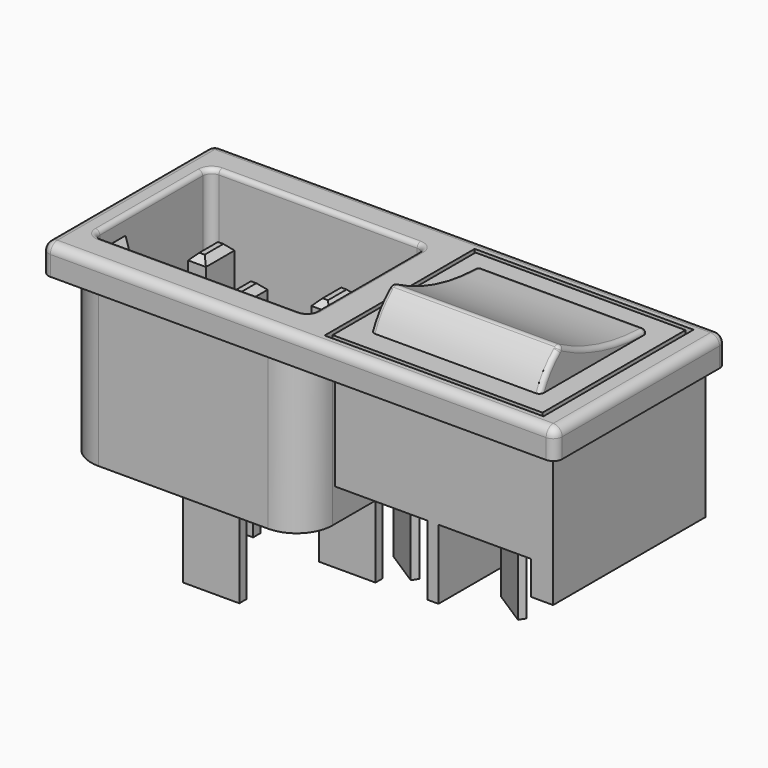
from build123d import *

# Parameters (mm, degrees)
SKETCH_W        = 57.5
SKETCH_H        = 24
PAD_DEPTH       = 3.2
FILLET_R        = 1
FILLET001_R     = 1
SKETCH001_W     = 24.5
SKETCH001_H     = 21
SKETCH001_W_2   = 23.5
SKETCH001_H_2   = 20
POCKET_DEPTH    = 1
SKETCH002_W     = 24.2
SKETCH002_H     = 16.4
POCKET001_DEPTH = 2
SKETCH003_W     = 27
SKETCH003_H     = 21.3
PAD001_DEPTH    = 17.8
SKETCH004_W     = 24.4
SKETCH004_H     = 21.3
PAD002_DEPTH    = 11.2
SKETCH005_W     = 2.5
SKETCH005_H     = 21.3
PAD003_DEPTH    = 3.75
FILLET002_R     = 4
SKETCH006_W     = 1.25
SKETCH006_H     = 21.3
PAD004_DEPTH    = 7.8
SKETCH007_W     = 24.2
SKETCH007_H     = 16.4
POCKET002_DEPTH = 17
CHAMFER_SIZE    = 4.6
SKETCH008_W     = 24.2
SKETCH008_H     = 16.4
POCKET003_DEPTH = 2
FILLET003_R     = 1
FILLET004_R     = 1
FILLET005_R     = 0.5
PAD005_DEPTH    = 24.25
POCKET004_DEPTH = 5.25
FILLET006_R     = 0.49
FILLET007_R     = 0.49
SKETCH011_W     = 6.3
SKETCH011_H     = 1
PAD006_DEPTH    = 11
SKETCH012_W     = 2
SKETCH012_H     = 4
PAD007_DEPTH    = 15.2
CHAMFER001_SIZE = 0.7
PAD008_DEPTH    = 7.8


with BuildPart() as part:
    # Sketch → Pad (new body)
    with BuildSketch(Plane.XY):
        Rectangle(SKETCH_W, SKETCH_H)
    extrude(amount=PAD_DEPTH)

    # Fillet
    fillet_edges = [part.edges().sort_by_distance(p)[0] for p in [
        (28.75, -12, 1.6),
        (28.75, 12, 1.6),
        (-28.75, 12, 1.6),
        (-28.75, -12, 1.6),
    ]]
    fillet(fillet_edges, radius=FILLET_R)

    # Fillet001
    fillet001_edges = [part.edges().sort_by_distance(p)[0] for p in [
        (0, 12, 3.2),
        (-28.457107, 11.707107, 3.2),
        (28.457107, 11.707107, 3.2),
        (-28.75, 0, 3.2),
        (28.75, 0, 3.2),
        (-28.457107, -11.707107, 3.2),
        (28.457107, -11.707107, 3.2),
        (0, -12, 3.2),
    ]]
    fillet(fillet001_edges, radius=FILLET001_R)

    # Sketch001 → Pocket (cut)
    with BuildSketch(Plane.XY.offset(3.2)):
        with Locations((14, 0)):
            Rectangle(SKETCH001_W, SKETCH001_H)
        with Locations((14, 0)):
            Rectangle(SKETCH001_W_2, SKETCH001_H_2, mode=Mode.SUBTRACT)
    extrude(amount=-POCKET_DEPTH, mode=Mode.SUBTRACT)

    # Sketch002 → Pocket001 (cut)
    with BuildSketch(Plane.XY.offset(3.2)):
        with Locations((-13.95, 0)):
            Rectangle(SKETCH002_W, SKETCH002_H)
    extrude(amount=-POCKET001_DEPTH, mode=Mode.SUBTRACT)

    # Sketch003 → Pad001 (new body)
    with BuildSketch(Plane(origin=(0, 0, 0), x_dir=(1, 0, 0), z_dir=(0, 0, -1))):
        with Locations((-13.95, 0)):
            Rectangle(SKETCH003_W, SKETCH003_H)
    extrude(amount=PAD001_DEPTH)

    # Sketch004 → Pad002 (new body)
    with BuildSketch(Plane(origin=(0, 0, 0), x_dir=(1, 0, 0), z_dir=(0, 0, -1))):
        with Locations((15.25, 0)):
            Rectangle(SKETCH004_W, SKETCH004_H)
    extrude(amount=PAD002_DEPTH)

    # Sketch005 → Pad003 (new body)
    with BuildSketch(Plane(origin=(0, 0, -11.2), x_dir=(1, 0, 0), z_dir=(0, 0, -1))):
        with Locations((26.2, 0)):
            Rectangle(SKETCH005_W, SKETCH005_H)
    extrude(amount=PAD003_DEPTH)

    # Fillet002
    fillet002_edges = [part.edges().sort_by_distance(p)[0] for p in [
        (-27.45, 10.65, -8.9),
        (-0.45, 10.65, -8.9),
        (-0.45, -10.65, -8.9),
        (-27.45, -10.65, -8.9),
    ]]
    fillet(fillet002_edges, radius=FILLET002_R)

    # Sketch006 → Pad004 (new body)
    with BuildSketch(Plane(origin=(0, 0, -11.2), x_dir=(1, 0, 0), z_dir=(0, 0, -1))):
        with Locations((13.995, 0)):
            Rectangle(SKETCH006_W, SKETCH006_H)
    extrude(amount=PAD004_DEPTH)

    # Sketch007 → Pocket002 (cut)
    with BuildSketch(Plane.XY.offset(1.2)):
        with Locations((-13.95, 0)):
            Rectangle(SKETCH007_W, SKETCH007_H)
    extrude(amount=-POCKET002_DEPTH, mode=Mode.SUBTRACT)

    # Chamfer
    chamfer_edges = [part.edges().sort_by_distance(p)[0] for p in [
        (-26.05, -8.2, -6.3),
        (-1.85, -8.2, -6.3),
    ]]
    chamfer(chamfer_edges, length=CHAMFER_SIZE)

    # Sketch008 → Pocket003 (cut)
    with BuildSketch(Plane.XY.offset(3.2)):
        with Locations((-13.95, 0)):
            Rectangle(SKETCH008_W, SKETCH008_H)
    extrude(amount=-POCKET003_DEPTH, mode=Mode.SUBTRACT)

    # Fillet003
    fillet003_edges = [part.edges().sort_by_distance(p)[0] for p in [
        (-1.85, 8.2, -6.3),
        (-26.05, 8.2, -6.3),
    ]]
    fillet(fillet003_edges, radius=FILLET003_R)

    # Fillet004
    fillet004_edges = [part.edges().sort_by_distance(p)[0] for p in [
        (-1.85, -8.2, 2.2),
        (-26.05, -8.2, 2.2),
    ]]
    fillet(fillet004_edges, radius=FILLET004_R)

    # Fillet005
    fillet005_edges = [part.edges().sort_by_distance(p)[0] for p in [
        (-2.142893, -7.907107, 3.2),
        (-13.95, -8.2, 3.2),
        (-1.85, 0, 3.2),
        (-2.142893, 7.907107, 3.2),
        (-13.95, 8.2, 3.2),
        (-25.757107, 7.907107, 3.2),
        (-26.05, 0, 3.2),
        (-25.757107, -7.907107, 3.2),
    ]]
    fillet(fillet005_edges, radius=FILLET005_R)

    # Sketch009 → Pad005 (new body)
    with BuildSketch(Plane.YZ.offset(28.75)):
        with BuildLine():
            ThreePointArc((-4.594304, 6.90566), (-6.306193, 5.254919), (-7.503197, 3.2))
            Line((-7.503197, 3.2), (7.499984, 3.2))
            ThreePointArc((7.499984, 3.2), (7.35603, 3.5471), (7.010989, 3.69592))
            ThreePointArc((-4.594304, 6.90566), (1.008423, 4.577952), (7.010989, 3.69592))
        make_face()
    extrude(amount=-PAD005_DEPTH)

    # Sketch010 → Pocket004 (cut)
    with BuildSketch(Plane.YZ.offset(28.75)):
        with BuildLine():
            ThreePointArc((-4.594304, 6.90566), (1.008423, 4.577952), (7.010989, 3.69592))
            ThreePointArc((7.499984, 3.2), (7.35603, 3.5471), (7.010989, 3.69592))
            Line((-7.503197, 3.2), (7.499984, 3.2))
            ThreePointArc((-4.594304, 6.90566), (-6.306193, 5.254919), (-7.503197, 3.2))
        make_face()
    extrude(amount=-POCKET004_DEPTH, mode=Mode.SUBTRACT)

    # Fillet006
    fillet006_edges = [part.edges().sort_by_distance(p)[0] for p in [
        (23.5, 1.008423, 4.577952),
        (4.5, 1.008423, 4.577952),
    ]]
    fillet(fillet006_edges, radius=FILLET006_R)

    # Fillet007
    fillet007_edges = [part.edges().sort_by_distance(p)[0] for p in [
        (23.5, -6.466509, 5.044117),
        (14, -4.594304, 6.90566),
        (4.5, -6.466509, 5.044117),
    ]]
    fillet(fillet007_edges, radius=FILLET007_R)

    # Sketch011 → Pad006 (new body)
    with BuildSketch(Plane(origin=(0, 0, -17.8), x_dir=(1, 0, 0), z_dir=(0, 0, -1))):
        with Locations((-13.95, 6.25)):
            Rectangle(SKETCH011_W, SKETCH011_H)
        with Locations((-20.8, -4.25)):
            Rectangle(SKETCH011_W, SKETCH011_H)
        with Locations((-7.1, -4.25)):
            Rectangle(SKETCH011_W, SKETCH011_H)
    extrude(amount=PAD006_DEPTH)

    # Sketch012 → Pad007 (new body)
    with BuildSketch(Plane.XY.offset(-15.8)):
        with Locations((-13.95, -2.1)):
            Rectangle(SKETCH012_W, SKETCH012_H)
        with Locations((-20.85, 1.9)):
            Rectangle(SKETCH012_W, SKETCH012_H)
        with Locations((-7.05, 1.9)):
            Rectangle(SKETCH012_W, SKETCH012_H)
    extrude(amount=PAD007_DEPTH)

    # Chamfer001
    chamfer001_edges = [part.edges().sort_by_distance(p)[0] for p in [
        (-20.85, 3.9, -0.6),
        (-19.85, 1.9, -0.6),
        (-20.85, -0.1, -0.6),
        (-21.85, 1.9, -0.6),
        (-13.95, -0.1, -0.6),
        (-12.95, -2.1, -0.6),
        (-13.95, -4.1, -0.6),
        (-14.95, -2.1, -0.6),
        (-7.05, 3.9, -0.6),
        (-6.05, 1.9, -0.6),
        (-7.05, -0.1, -0.6),
        (-8.05, 1.9, -0.6),
    ]]
    chamfer(chamfer001_edges, length=CHAMFER001_SIZE)

    # Sketch013 → Pad008 (new body)
    with BuildSketch(Plane(origin=(0, 0, -11.2), x_dir=(1, 0, 0), z_dir=(0, 0, -1))):
        Polygon((5.98, 6.13), (9.930663, 8.676029), (10.36403, 8.003575), (6.413367, 5.457547), align=None)
        Polygon((5.98, -0.54), (9.930663, 2.006029), (10.36403, 1.333575), (6.413367, -1.212453), align=None)
        Polygon((17.979337, -0.54), (18.412704, -1.212453), (22.363367, 1.333575), (21.93, 2.006029), align=None)
        Polygon((17.979337, 6.13), (21.93, 8.676029), (22.363367, 8.003575), (18.412704, 5.457547), align=None)
    extrude(amount=PAD008_DEPTH)


solid = part.part
